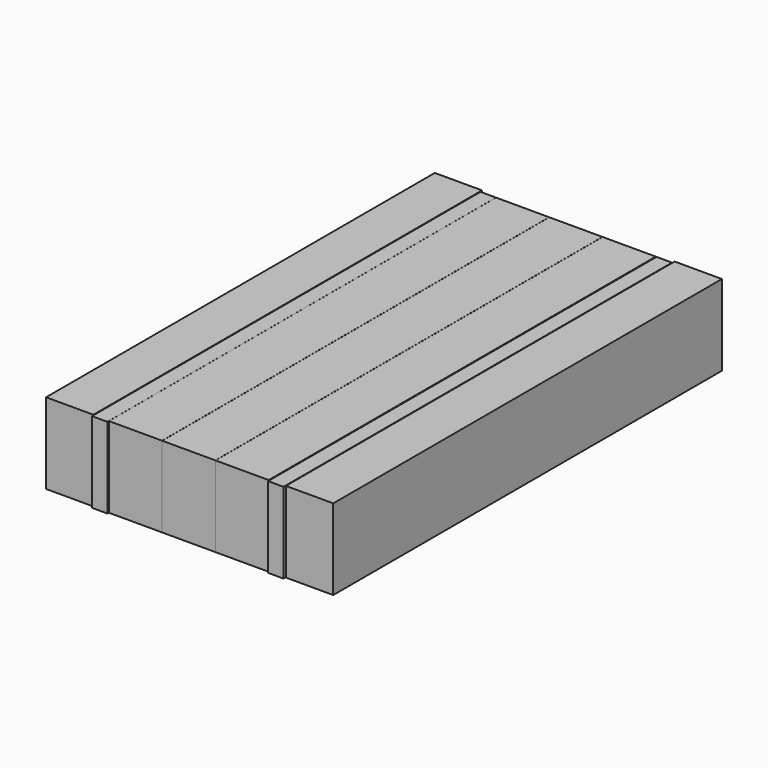
from build123d import *

# Parameters (mm, degrees)
F0_W      = 16.730588
F0_H      = 152.194403
F1_DEPTH  = 25.4
F9_W      = 4.857268
F9_H      = 152.734101
F11_DEPTH = 25.4
F16_W     = 14.874186
F16_H     = 152.798496
F17_DEPTH = 25.4


with BuildPart() as f1:
    # F0 (on Top) → F1 (new body)
    with BuildSketch(Plane.XY):
        with Locations((-67.462059, 0.134927)):
            Rectangle(F0_W, F0_H)
    extrude(amount=F1_DEPTH)


with BuildPart() as f2_1:
    # F2: copy of F1
    add(f1.part.moved(Location((16.51, 0, 0))))


with BuildPart() as f3_1:
    # F3: copy of F2_1
    add(f2_1.part.moved(Location((16.51, 0, 0))))


with BuildPart() as f4_1:
    # F4: copy of F3_1
    add(f3_1.part.moved(Location((16.764, 0, 0))))


with BuildPart() as f5_1:
    # F5: copy of F4_1
    add(f4_1.part.moved(Location((16.764, 0, 0))))


with BuildPart() as f6_1:
    # F6: copy of F5_1
    add(f5_1.part.moved(Location((16.764, 0, 0))))


with BuildPart() as f7_1:
    # F7: copy of F6_1
    add(f6_1.part.moved(Location((17.018, 0, 0))))


with BuildPart() as f11:
    # F9 (on Top) → F11 (new body)
    with BuildSketch(Plane.XY):
        with Locations((-56.937976, -0.134922)):
            Rectangle(F9_W, F9_H)
    extrude(amount=F11_DEPTH)


with BuildPart() as f12_1:
    # F12: copy of F11
    add(f11.part.moved(Location((67.056, 0, 0))))


with BuildPart() as f14_1:
    # F14: copy of F12_1
    add(f12_1.part.moved(Location((-55.372, 0, 0))))


with BuildPart() as f17:
    # F16 (on Top) → F17 (new body)
    with BuildSketch(Plane.XY):
        with Locations((-55.304939, 0.676397)):
            Rectangle(F16_W, F16_H)
    extrude(amount=F17_DEPTH)


with BuildPart() as f18_1:
    # F18: copy of F17
    add(f17.part.moved(Location((75.438, 0, 0))))


solid = Compound([f3_1.part, f4_1.part, f5_1.part, f12_1.part, f14_1.part, f17.part, f18_1.part])
